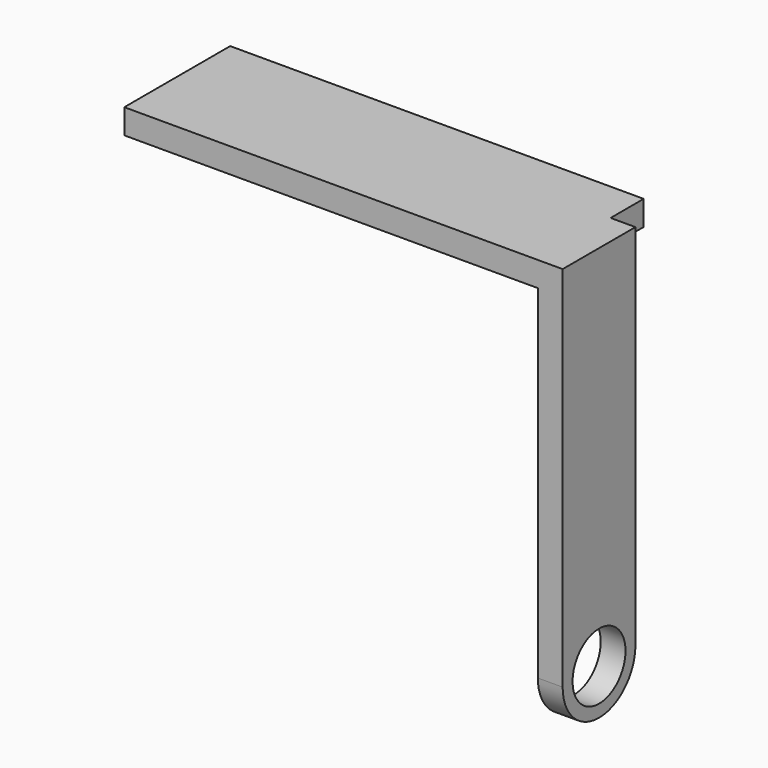
from build123d import *

# Parameters (mm, degrees)
SKETCH046_R     = 0.8
PAD028_DEPTH    = 0.6
SKETCH053_W     = 2.2
SKETCH053_H     = 0.6
PAD027_DEPTH    = 10
PAD027_FACE12_W = 10
PAD027_FACE12_H = 0.6
PAD029_DEPTH    = 1


with BuildPart() as part:
    # Sketch046 → Pad028 (new body)
    with BuildSketch(Plane.YZ):
        with BuildLine():
            Line((0, -8.9), (0, 0))
            Line((0, 0), (2.2, 0))
            Line((2.2, 0), (2.2, -8.9))
            ThreePointArc((0, -8.9), (1.1, -10), (2.2, -8.9))
        make_face()
        with Locations((1.1, -8.9)):
            Circle(SKETCH046_R, mode=Mode.SUBTRACT)
    extrude(amount=PAD028_DEPTH)

    # Sketch053 (on Face6 of Pad028) → Pad027 (join)
    with BuildSketch(Plane(origin=(0, 0, 0), x_dir=(0, 1, 0), z_dir=(-1, 0, 0))):
        with Locations((1.1, 0.3)):
            Rectangle(SKETCH053_W, SKETCH053_H)
    extrude(amount=PAD027_DEPTH)

    # Pad027 Face12 → Pad029 (add)
    with BuildSketch(Plane(origin=(-5, 2.2, -0.3), x_dir=(1, 0, 0), z_dir=(0, 1, 0))):
        Rectangle(PAD027_FACE12_W, PAD027_FACE12_H)
    extrude(amount=PAD029_DEPTH)


with BuildPart() as part_1:
    # Body004 placement: moved
    add(part.part.moved(Location((10, 12.3, 5.5))))


solid = part_1.part
